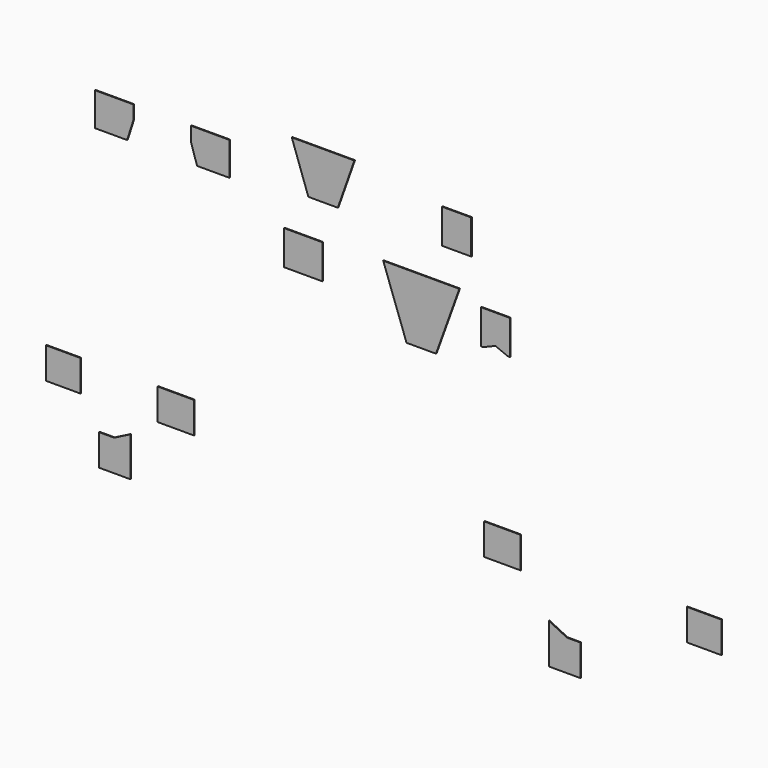
from build123d import *

# Parameters (mm, degrees)
F0_W     = 740
F0_H     = 660
F1_DEPTH = 15
F2_W     = 560
F2_H     = 660
F3_DEPTH = 15
F4_W     = 660
F4_H     = 600
F4_W_2   = 700
F5_DEPTH = 15
F6_W     = 700
F6_H     = 600
F6_W_2   = 660
F7_DEPTH = 15


with BuildPart() as f1:
    # F0 (on Front) → F1 (new body)
    with BuildSketch(Plane.XZ):
        Polygon((1262.978637, 170.515314), (-197.021363, 170.515314), (250.478637, -1069.484686), (815.478637, -1069.484686), align=None)
        Polygon((2234.775333, -4.741458), (1674.775333, -4.741458), (1674.775333, -664.741458), (1719.775333, -664.741458), (1949.775333, -569.741458), (1959.775333, -569.741458), (2189.775333, -664.741458), (2234.775333, -664.741458), align=None)
        with Locations((-1732.416272, -227.169156)):
            Rectangle(F0_W, F0_H)
    extrude(amount=F1_DEPTH)


with BuildPart() as f3:
    # F2 (on Front) → F3 (new body)
    with BuildSketch(Plane.XZ):
        Polygon((-1632.637649, 782.145834), (-1067.637649, 782.145834), (-750.137649, 1682.145834), (-1950.137649, 1682.145834), align=None)
        with Locations((1211.282105, 1119.74849)):
            Rectangle(F2_W, F2_H)
        Polygon((-4987.816105, 1250.934377), (-5727.816105, 1250.934377), (-5727.816105, 610.934377), (-5107.816105, 610.934377), (-4987.816105, 985.934377), align=None)
        Polygon((-3146.692753, 610.934377), (-3146.692753, 1250.934377), (-3886.692753, 1250.934377), (-3886.692753, 985.934377), (-3766.692753, 610.934377), align=None)
    extrude(amount=F3_DEPTH)


with BuildPart() as f5:
    # F4 (on Front) → F5 (new body)
    with BuildSketch(Plane.XZ):
        with Locations((-6332.223969, -3660.037231)):
            Rectangle(F4_W, F4_H)
        with Locations((-4173.239613, -3660.037231)):
            Rectangle(F4_W_2, F4_H)
        Polygon((-5042.57061, -4335.703125), (-5357.57061, -4495.703125), (-5647.57061, -4495.703125), (-5647.57061, -5095.703125), (-5042.57061, -5095.703125), align=None)
    extrude(amount=F5_DEPTH)


with BuildPart() as f7:
    # F6 (on Front) → F7 (new body)
    with BuildSketch(Plane.XZ):
        with Locations((2087.056303, -3900.798035)):
            Rectangle(F6_W, F6_H)
        with Locations((5956.612034, -4079.115105)):
            Rectangle(F6_W_2, F6_H)
        Polygon((2981.250792, -4876.176815), (2981.250792, -5646.176815), (3586.250792, -5646.176815), (3586.250792, -5046.176815), (3326.250792, -5046.176815), align=None)
    extrude(amount=F7_DEPTH)


solid = Compound([f1.part, f3.part, f5.part, f7.part])
